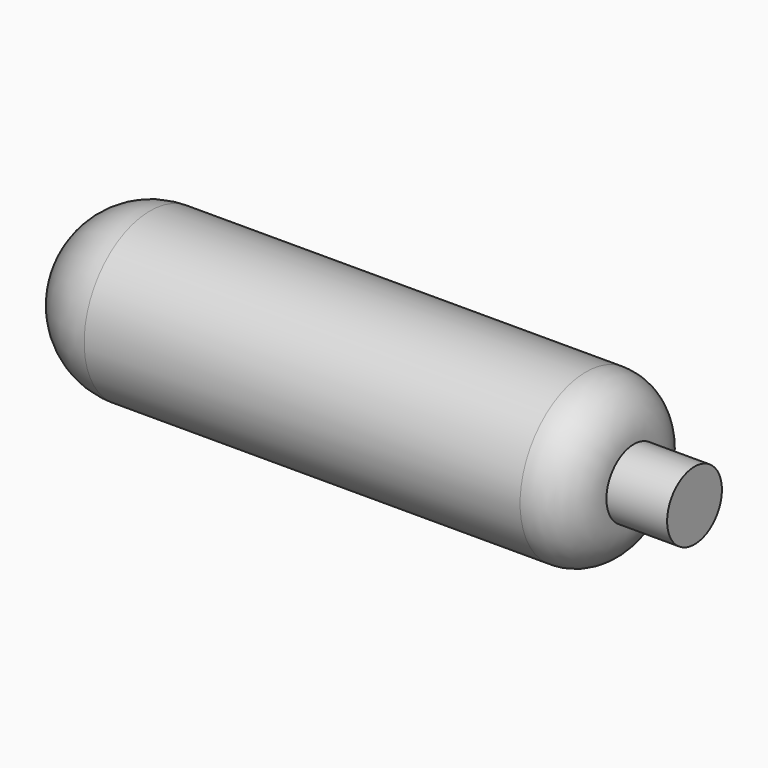
from build123d import *

# Parameters (mm, degrees)
F0_R     = 9.5
F1_DEPTH = 65
F2_R     = 9.198154
F3_R     = 5.518892
F4_R     = 3.951645
F5_DEPTH = 7


with BuildPart() as f1:
    # F0 (on Right) → F1 (new body)
    with BuildSketch(Plane.YZ):
        Circle(F0_R)
    extrude(amount=F1_DEPTH)

    # F2
    f2_edges = [f1.edges().sort_by_distance(p)[0] for p in [
        (0, -9.5, 0),
    ]]
    fillet(f2_edges, radius=F2_R)

    # F3
    f3_edges = [f1.edges().sort_by_distance(p)[0] for p in [
        (65, -9.5, 0),
    ]]
    fillet(f3_edges, radius=F3_R)

    # F4 (on face) → F5 (join)
    with BuildSketch(Plane.YZ.offset(65)):
        Circle(F4_R)
    extrude(amount=F5_DEPTH)


solid = f1.part
